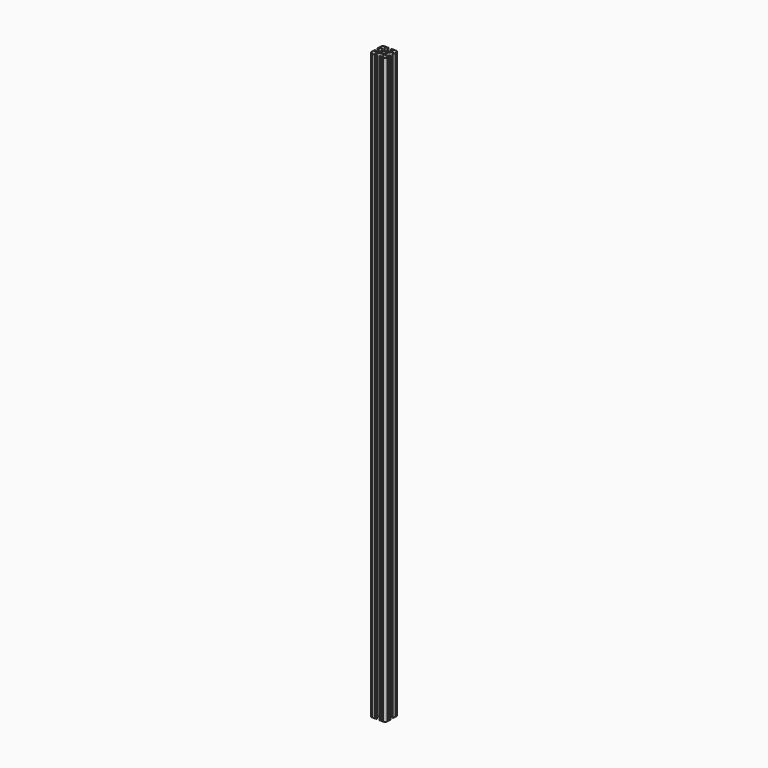
from build123d import *

# Parameters (mm, degrees)
F0_R     = 3.362501
F1_DEPTH = 939.8


with BuildPart() as f1:
    # F0 (on Top) → F1 (new body)
    with BuildSketch(Plane.XY):
        with BuildLine():
            ThreePointArc((-8.548576, 18.755238), (-9.784629, 17.929334), (-11.242653, 17.639315))
            Line((-11.242653, 17.639315), (-14.157347, 17.639315))
            ThreePointArc((-14.157347, 17.639315), (-15.615371, 17.929334), (-16.851424, 18.755238))
            Line((-16.851424, 18.755238), (-18.696905, 20.600719))
            ThreePointArc((-18.696905, 20.600719), (-19.109857, 22.67677), (-17.349867, 23.852758))
            Line((-17.349867, 23.852758), (-15.615371, 23.852758))
            Line((-15.615371, 23.852758), (-15.58302, 23.852758))
            ThreePointArc((-15.58302, 23.852758), (-14.825405, 24.626379), (-15.58302, 25.4))
            Line((-15.58302, 25.4), (-15.615371, 25.4))
            Line((-15.615371, 25.4), (-16.253341, 25.4))
            ThreePointArc((-16.253341, 25.4), (-16.801604, 24.858772), (-17.349867, 25.4))
            Line((-17.349867, 25.4), (-20.487482, 25.4))
            ThreePointArc((-20.487482, 25.4), (-21.038741, 24.848741), (-21.59, 25.4))
            ThreePointArc((-21.59, 25.4), (-24.284077, 24.284077), (-25.4, 21.59))
            Line((-25.4, 21.59), (-25.4, 20.504724))
            Line((-25.4, 20.504724), (-25.4, 17.349867))
            ThreePointArc((-25.4, 17.349867), (-24.844161, 16.802675), (-25.4, 16.255483))
            Line((-25.4, 16.255483), (-25.4, 15.615371))
            ThreePointArc((-25.4, 15.615371), (-24.626379, 14.859554), (-23.852758, 15.615371))
            Line((-23.852758, 15.615371), (-23.852758, 17.349867))
            ThreePointArc((-23.852758, 17.349867), (-22.67677, 19.109857), (-20.600719, 18.696905))
            Line((-20.600719, 18.696905), (-18.755238, 16.851424))
            ThreePointArc((-18.755238, 16.851424), (-17.929334, 15.615371), (-17.639315, 14.157347))
            Line((-17.639315, 14.157347), (-17.639315, 11.242653))
            ThreePointArc((-17.639315, 11.242653), (-17.929334, 9.784629), (-18.755238, 8.548576))
            Line((-18.755238, 8.548576), (-20.600719, 6.703095))
            ThreePointArc((-20.600719, 6.703095), (-22.67677, 6.290143), (-23.852758, 8.050133))
            Line((-23.852758, 8.050133), (-23.852758, 9.784629))
            ThreePointArc((-23.852758, 9.784629), (-24.626379, 10.55825), (-25.4, 9.784629))
            Line((-25.4, 9.784629), (-25.4, 9.149239))
            ThreePointArc((-25.4, 9.149239), (-24.899374, 8.599686), (-25.4, 8.050133))
            Line((-25.4, 8.050133), (-25.4, 4.904538))
            ThreePointArc((-25.4, 4.904538), (-24.846216, 4.357269), (-25.4, 3.81))
            ThreePointArc((-25.4, 3.81), (-24.284077, 1.115923), (-21.59, 0))
            ThreePointArc((-21.59, 0), (-21.040817, 0.554885), (-20.491634, 0))
            Line((-20.491634, 0), (-16.708169, 0))
            ThreePointArc((-16.708169, 0), (-16.16177, 0.540135), (-15.615371, 0))
            ThreePointArc((-15.615371, 0), (-14.854184, 0.7747), (-15.615371, 1.5494))
            Line((-15.615371, 1.5494), (-17.347709, 1.5494))
            ThreePointArc((-17.347709, 1.5494), (-19.107699, 2.725388), (-18.694747, 4.801438))
            Line((-18.694747, 4.801438), (-16.851424, 6.644762))
            ThreePointArc((-16.851424, 6.644762), (-15.615371, 7.470666), (-14.157347, 7.760685))
            Line((-14.157347, 7.760685), (-11.242653, 7.760685))
            ThreePointArc((-11.242653, 7.760685), (-9.784629, 7.470666), (-8.548576, 6.644762))
            Line((-8.548576, 6.644762), (-6.705253, 4.801438))
            ThreePointArc((-6.705253, 4.801438), (-6.292301, 2.725388), (-8.052291, 1.5494))
            Line((-8.052291, 1.5494), (-9.784629, 1.5494))
            ThreePointArc((-9.784629, 1.5494), (-10.401836, 0.7747), (-9.784629, 0))
            Line((-9.784629, 0), (-9.152868, 0))
            ThreePointArc((-9.152868, 0), (-8.602579, 0.545262), (-8.052291, 0))
            Line((-8.052291, 0), (-4.898866, 0))
            ThreePointArc((-4.898866, 0), (-4.354433, 0.544433), (-3.81, 0))
            ThreePointArc((-3.81, 0), (-1.115923, 1.115923), (0, 3.81))
            ThreePointArc((0, 3.81), (-0.53938, 4.3561), (0, 4.9022))
            Line((0, 4.9022), (0, 8.052291))
            ThreePointArc((0, 8.052291), (-0.543517, 8.60166), (0, 9.151029))
            Line((0, 9.151029), (0, 9.784629))
            ThreePointArc((0, 9.784629), (-0.7747, 10.504691), (-1.5494, 9.784629))
            Line((-1.5494, 9.784629), (-1.5494, 8.052291))
            ThreePointArc((-1.5494, 8.052291), (-2.725388, 6.292301), (-4.801438, 6.705253))
            Line((-4.801438, 6.705253), (-6.644762, 8.548576))
            ThreePointArc((-6.644762, 8.548576), (-7.470666, 9.784629), (-7.760685, 11.242653))
            Line((-7.760685, 11.242653), (-7.760685, 14.157347))
            ThreePointArc((-7.760685, 14.157347), (-7.470666, 15.615371), (-6.644762, 16.851424))
            Line((-6.644762, 16.851424), (-4.801438, 18.694747))
            ThreePointArc((-4.801438, 18.694747), (-2.725388, 19.107699), (-1.5494, 17.347709))
            Line((-1.5494, 17.347709), (-1.5494, 15.615371))
            ThreePointArc((-1.5494, 15.615371), (-0.7747, 14.879405), (0, 15.615371))
            Line((0, 15.615371), (0, 16.255509))
            ThreePointArc((0, 16.255509), (-0.5461, 16.801609), (0, 17.347709))
            Line((0, 17.347709), (0, 20.495165))
            ThreePointArc((0, 20.495165), (-0.551056, 21.042583), (0, 21.59))
            ThreePointArc((0, 21.59), (-1.115923, 24.284077), (-3.81, 25.4))
            ThreePointArc((-3.81, 25.4), (-4.365303, 24.903619), (-4.920606, 25.4))
            Line((-4.920606, 25.4), (-8.050133, 25.4))
            ThreePointArc((-8.050133, 25.4), (-8.596365, 24.859433), (-9.142596, 25.4))
            Line((-9.142596, 25.4), (-9.784629, 25.4))
            Line((-9.784629, 25.4), (-9.856203, 25.4))
            ThreePointArc((-9.856203, 25.4), (-10.594864, 24.626379), (-9.856203, 23.852758))
            Line((-9.856203, 23.852758), (-9.784629, 23.852758))
            Line((-9.784629, 23.852758), (-8.050133, 23.852758))
            ThreePointArc((-8.050133, 23.852758), (-6.290143, 22.67677), (-6.703095, 20.600719))
            Line((-6.703095, 20.600719), (-8.548576, 18.755238))
        make_face()
        with Locations((-12.7, 12.7)):
            Circle(F0_R, mode=Mode.SUBTRACT)
        with BuildLine():
            ThreePointArc((-9.856203, 23.852758), (-9.820416, 23.851931), (-9.784629, 23.852758))
            Line((-9.784629, 23.852758), (-9.856203, 23.852758))
        make_face()
        with BuildLine():
            Line((-15.58302, 23.852758), (-15.615371, 23.852758))
            ThreePointArc((-15.615371, 23.852758), (-15.599195, 23.852589), (-15.58302, 23.852758))
        make_face()
        with BuildLine():
            ThreePointArc((-9.784629, 25.4), (-9.820416, 25.400827), (-9.856203, 25.4))
            Line((-9.856203, 25.4), (-9.784629, 25.4))
        make_face()
        with BuildLine():
            Line((-15.615371, 25.4), (-15.58302, 25.4))
            ThreePointArc((-15.58302, 25.4), (-15.599195, 25.400169), (-15.615371, 25.4))
        make_face()
    extrude(amount=F1_DEPTH)


solid = f1.part
